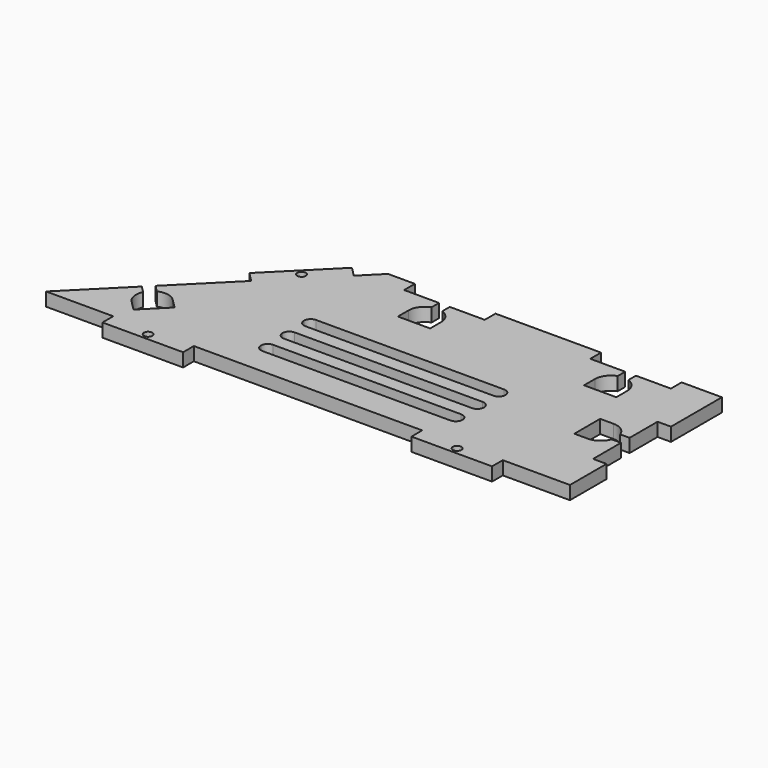
from build123d import *

# Parameters (mm, degrees)
F0_R     = 1.6
F1_DEPTH = 5


with BuildPart() as f1:
    # F0 (on Top) → F1 (new body)
    with BuildSketch(Plane.XY):
        with BuildLine():
            Line((0, -23.710678), (0, 0))
            Line((0, 0), (-15, 0))
            Line((-15, 0), (-15, -5))
            Line((-15, -5), (-28, -5))
            Line((-28, -5), (-28, -8.5))
            ThreePointArc((-28, -8.5), (-25.101021, -10.692753), (-24, -14.156854))
            Line((-24, -14.156854), (-24, -19.156854))
            Line((-24, -19.156854), (-36, -19.156854))
            Line((-36, -19.156854), (-36, -14.156854))
            ThreePointArc((-36, -14.156854), (-34.898979, -10.692753), (-32, -8.5))
            Line((-32, -8.5), (-32, -5))
            Line((-32, -5), (-45, -5))
            Line((-45, -5), (-45, 0))
            Line((-45, 0), (-84.289322, 0))
            Line((-84.289322, 0), (-84.289322, -5))
            Line((-84.289322, -5), (-97.289322, -5))
            Line((-97.289322, -5), (-97.289322, -8.5))
            ThreePointArc((-97.289322, -8.5), (-94.390342, -10.692753), (-93.289322, -14.156854))
            Line((-93.289322, -14.156854), (-93.289322, -19.156854))
            Line((-93.289322, -19.156854), (-105.289322, -19.156854))
            Line((-105.289322, -19.156854), (-105.289322, -14.156854))
            ThreePointArc((-105.289322, -14.156854), (-104.188301, -10.692753), (-101.289322, -8.5))
            Line((-101.289322, -8.5), (-101.289322, -5))
            Line((-101.289322, -5), (-114.289322, -5))
            Line((-114.289322, -5), (-114.289322, 0))
            Line((-114.289322, 0), (-124.289322, 0))
            Line((-124.289322, 0), (-131.36039, -7.071068))
            Line((-131.36039, -7.071068), (-134.895924, -3.535534))
            Line((-134.895924, -3.535534), (-156.109127, -24.748737))
            Line((-156.109127, -24.748737), (-152.573593, -28.284271))
            Line((-152.573593, -28.284271), (-172.372583, -48.083261))
            Line((-172.372583, -48.083261), (-169.897709, -50.558135))
            ThreePointArc((-169.897709, -50.558135), (-166.297311, -50.058757), (-163.069282, -51.729708))
            Line((-163.069282, -51.729708), (-159.533748, -55.265242))
            Line((-159.533748, -55.265242), (-168.01903, -63.750523))
            Line((-168.01903, -63.750523), (-171.554564, -60.214989))
            ThreePointArc((-171.554564, -60.214989), (-173.225514, -56.98696), (-172.726136, -53.386562))
            Line((-172.726136, -53.386562), (-175.20101, -50.911688))
            Line((-175.20101, -50.911688), (-195, -70.710678))
            Line((-195, -70.710678), (-170, -70.710678))
            Line((-170, -70.710678), (-170, -75.710678))
            Line((-170, -75.710678), (-140, -75.710678))
            Line((-140, -75.710678), (-140, -70.710678))
            Line((-140, -70.710678), (-55, -70.710678))
            Line((-55, -70.710678), (-55, -75.710678))
            Line((-55, -75.710678), (-25, -75.710678))
            Line((-25, -75.710678), (-25, -70.710678))
            Line((-25, -70.710678), (0, -70.710678))
            Line((0, -70.710678), (0, -53.710678))
            Line((0, -53.710678), (-5, -53.710678))
            Line((-5, -53.710678), (-5, -40.710678))
            Line((-5, -40.710678), (-8.5, -40.710678))
            ThreePointArc((-8.5, -40.710678), (-10.692753, -43.609658), (-14.156854, -44.710678))
            Line((-14.156854, -44.710678), (-19.156854, -44.710678))
            Line((-19.156854, -44.710678), (-19.156854, -32.710678))
            Line((-19.156854, -32.710678), (-14.156854, -32.710678))
            ThreePointArc((-14.156854, -32.710678), (-10.692753, -33.811699), (-8.5, -36.710678))
            Line((-8.5, -36.710678), (-5, -36.710678))
            Line((-5, -36.710678), (-5, -23.710678))
            Line((-5, -23.710678), (0, -23.710678))
        make_face()
        with Locations((-155, -73.210678)):
            Circle(F0_R, mode=Mode.SUBTRACT)
        with BuildLine():
            ThreePointArc((-125, -58.210678), (-124.267767, -56.442911), (-122.5, -55.710678))
            Line((-122.5, -55.710678), (-52.5, -55.710678))
            ThreePointArc((-52.5, -55.710678), (-50.732233, -56.442911), (-50, -58.210678))
            ThreePointArc((-50, -58.210678), (-50.732233, -59.978445), (-52.5, -60.710678))
            Line((-52.5, -60.710678), (-122.5, -60.710678))
            ThreePointArc((-122.5, -60.710678), (-124.267767, -59.978445), (-125, -58.210678))
        make_face(mode=Mode.SUBTRACT)
        with Locations((-40, -73.210678)):
            Circle(F0_R, mode=Mode.SUBTRACT)
        with BuildLine():
            ThreePointArc((-125, -48.210678), (-124.267767, -46.442911), (-122.5, -45.710678))
            Line((-122.5, -45.710678), (-52.5, -45.710678))
            ThreePointArc((-52.5, -45.710678), (-50.732233, -46.442911), (-50, -48.210678))
            ThreePointArc((-50, -48.210678), (-50.732233, -49.978445), (-52.5, -50.710678))
            Line((-52.5, -50.710678), (-122.5, -50.710678))
            ThreePointArc((-122.5, -50.710678), (-124.267767, -49.978445), (-125, -48.210678))
        make_face(mode=Mode.SUBTRACT)
        with BuildLine():
            ThreePointArc((-125, -38.210678), (-124.267767, -36.442911), (-122.5, -35.710678))
            Line((-122.5, -35.710678), (-52.5, -35.710678))
            ThreePointArc((-52.5, -35.710678), (-50.732233, -36.442911), (-50, -38.210678))
            ThreePointArc((-50, -38.210678), (-50.732233, -39.978445), (-52.5, -40.710678))
            Line((-52.5, -40.710678), (-122.5, -40.710678))
            ThreePointArc((-122.5, -40.710678), (-124.267767, -39.978445), (-125, -38.210678))
        make_face(mode=Mode.SUBTRACT)
        with Locations((-143.734758, -15.909903)):
            Circle(F0_R, mode=Mode.SUBTRACT)
    extrude(amount=F1_DEPTH)


solid = f1.part
